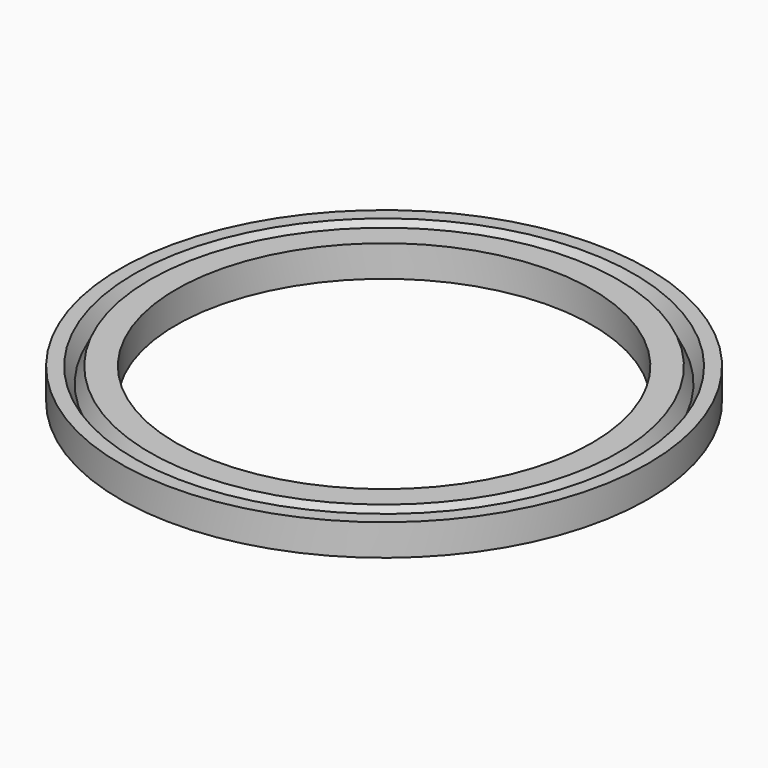
from build123d import *

# Parameters (mm, degrees)
F0_W = 2.631476
F0_H = 1.473627


with BuildPart() as f1:
    # F0 (on Front) → F1 (revolve)
    with BuildSketch(Plane.XZ):
        with Locations((11.087556, -3.972349)):
            Rectangle(F0_W, F0_H)
    revolve(axis=Axis((0, 0, 2.659775), (0, 0, 1)))

    # F2 (on Front) → F3 (revolve, cut)
    with BuildSketch(Plane.XZ):
        Polygon((-10.460521, -2.116024), (-12.336816, -2.116024), (-11.355485, -3.963235), align=None)
    revolve(axis=Axis((0, 0, 2.659775), (0, 0, 1)), mode=Mode.SUBTRACT)


solid = f1.part
